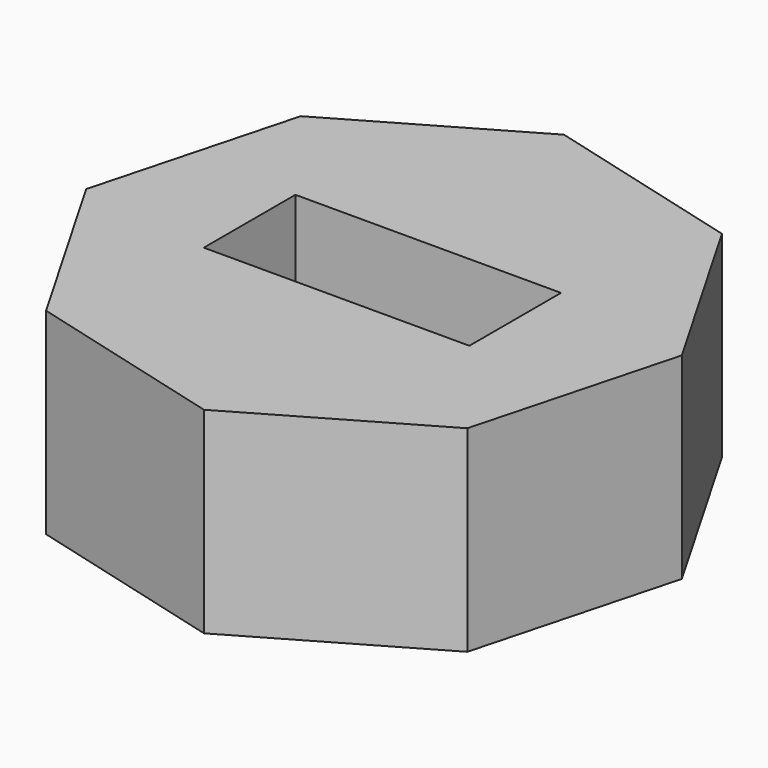
from build123d import *

# Parameters (mm, degrees)
F1_DEPTH = 25.4
F2_W     = 34.272391
F2_H     = 14.77997
F3_DEPTH = 36.322


with BuildPart() as f1:
    # F0 (on Top) → F1 (new body)
    with BuildSketch(Plane.XY):
        Polygon((34.771695, 4.583286), (21.346428, 27.828174), (-4.583286, 34.771695), (-27.828174, 21.346428), (-34.771695, -4.583286), (-21.346428, -27.828174), (4.583286, -34.771695), (27.828174, -21.346428), align=None)
    extrude(amount=F1_DEPTH)

    # F2 (on face) → F3 (cut)
    with BuildSketch(Plane.XY.offset(25.4)):
        with Locations((-0.390441, 0.230015)):
            Rectangle(F2_W, F2_H)
    extrude(amount=-F3_DEPTH, mode=Mode.SUBTRACT)


solid = f1.part
